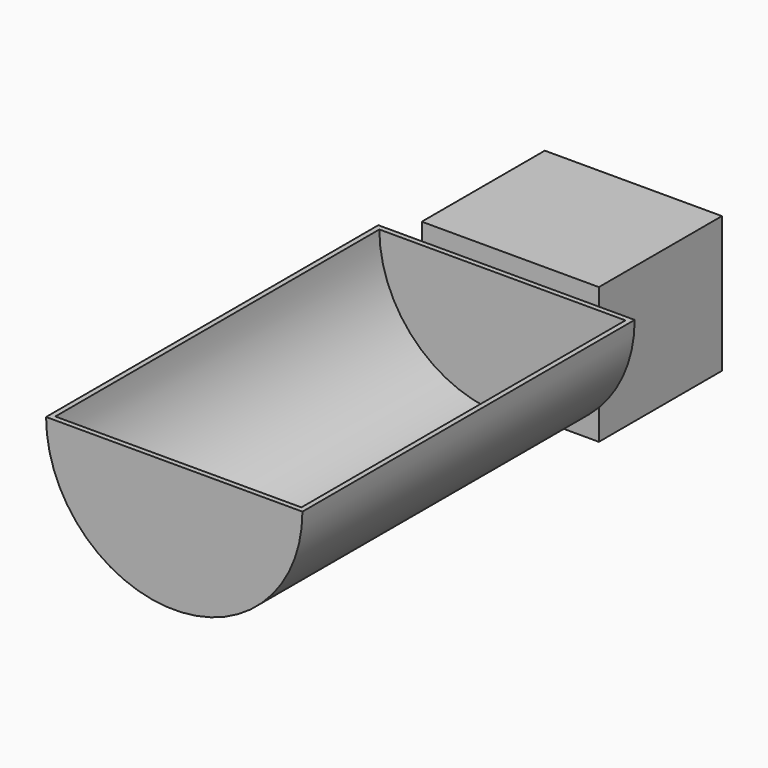
from build123d import *

# Parameters (mm, degrees)
F1_DEPTH = 10
F2_DEPTH = 800
F4_DEPTH = 10
F5_W     = 345.459491
F5_H     = 265.73801
F6_DEPTH = 300


with BuildPart() as f1:
    # F0 (on Front) → F1 (new body)
    with BuildSketch(Plane.XZ):
        with BuildLine():
            ThreePointArc((-500, 0), (-250, -250), (0, 0))
            Line((0, 0), (-10, 0))
            ThreePointArc((-10, 0), (-250, -239.685813), (-490, 0))
            Line((-490, 0), (-500, 0))
        make_face()
        with BuildLine():
            ThreePointArc((-490, 0), (-250, -239.685813), (-10, 0))
            Line((-10, 0), (-490, 0))
        make_face()
    extrude(amount=F1_DEPTH)

    # F0 (on Front) → F2 (join)
    with BuildSketch(Plane.XZ):
        with BuildLine():
            ThreePointArc((-500, 0), (-250, -250), (0, 0))
            Line((0, 0), (-10, 0))
            ThreePointArc((-10, 0), (-250, -239.685813), (-490, 0))
            Line((-490, 0), (-500, 0))
        make_face()
    extrude(amount=-F2_DEPTH)

    # F3 (on face) → F4 (join)
    with BuildSketch(Plane(origin=(0, 800, 0), x_dir=(-1, 0, 0), z_dir=(0, 1, 0))):
        with BuildLine():
            Line((490, 0), (10, 0))
            ThreePointArc((10, 0), (250, -239.685813), (490, 0))
        make_face()
    extrude(amount=-F4_DEPTH)

    # F5 (on face) → F6 (join)
    with BuildSketch(Plane(origin=(0, 800, 0), x_dir=(-1, 0, 0), z_dir=(0, 1, 0))):
        with Locations((242.526159, -99.256635)):
            Rectangle(F5_W, F5_H)
    extrude(amount=F6_DEPTH)


solid = f1.part
